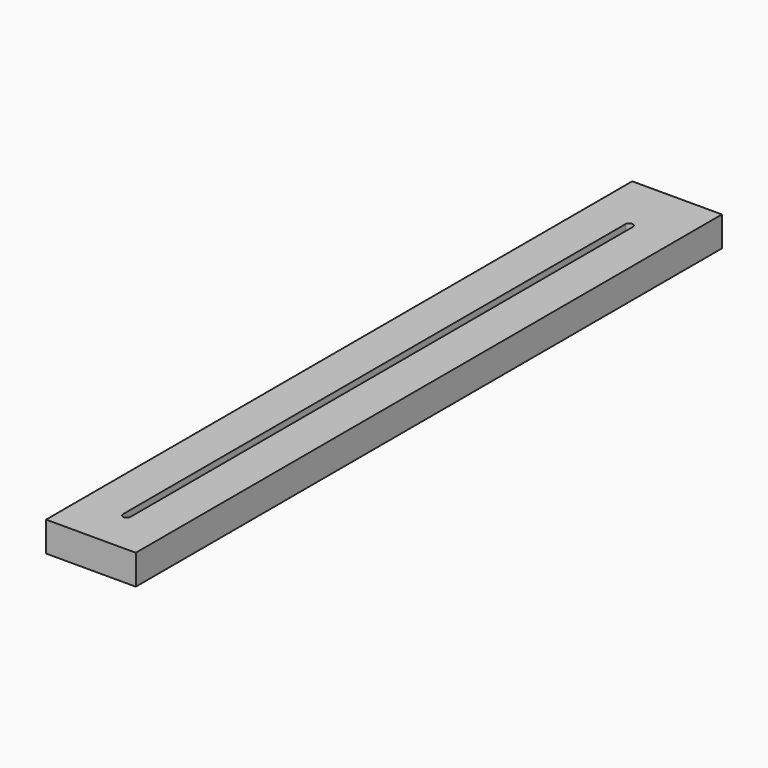
from build123d import *

# Parameters (mm, degrees)
F0_W     = 38.1
F0_H     = 304.8
F1_DEPTH = 3.175
F3_START = 12.7
F2_W     = 304.8
F2_H     = 9.525
F3_DEPTH = 6.35
F4_START = -12.7
F4_DEPTH = 6.35
F6_START = 152.4
F5_W     = 38.1
F5_H     = 12.7
F6_DEPTH = 6.35
F8_START = 9.525
F7_W     = 38.1
F7_H     = 311.15
F8_DEPTH = 3.175


with BuildPart() as f1:
    # F0 (on Top) → F1 (new body)
    with BuildSketch(Plane.XY):
        Rectangle(F0_W, F0_H)
    extrude(amount=F1_DEPTH)

    # F2 (on Right) → F3 (join)
    with BuildSketch(Plane.YZ.offset(F3_START)):
        with Locations((0, 7.9375)):
            Rectangle(F2_W, F2_H)
    extrude(amount=F3_DEPTH)

    # F2 (on Right) → F4 (join)
    with BuildSketch(Plane.YZ.offset(F4_START)):
        with Locations((0, 7.9375)):
            Rectangle(F2_W, F2_H)
    extrude(amount=-F4_DEPTH)

    # F5 (on Front) → F6 (join)
    with BuildSketch(Plane.XZ.offset(F6_START)):
        with Locations((0, 6.35)):
            Rectangle(F5_W, F5_H)
    extrude(amount=F6_DEPTH)

    # F7 (on Top) → F8 (join)
    with BuildSketch(Plane.XY.offset(F8_START)):
        with Locations((0, -3.175)):
            Rectangle(F7_W, F7_H)
        with BuildLine():
            Line((1.5834027278, 127.1139826809), (1.5874468984, -139.7129844058))
            ThreePointArc((1.5874468984, -139.7129844058), (0.0230261009, -141.2873329987), (-1.5864023222, -139.7590247593))
            Line((-1.5864023222, -139.7590247593), (-1.5821546863, 127.1301645063))
            ThreePointArc((-1.5821546863, 127.1301645063), (0.0081149412, 128.587479259), (1.5834027278, 127.1139826809))
        make_face(mode=Mode.SUBTRACT)
    extrude(amount=F8_DEPTH)


solid = f1.part
